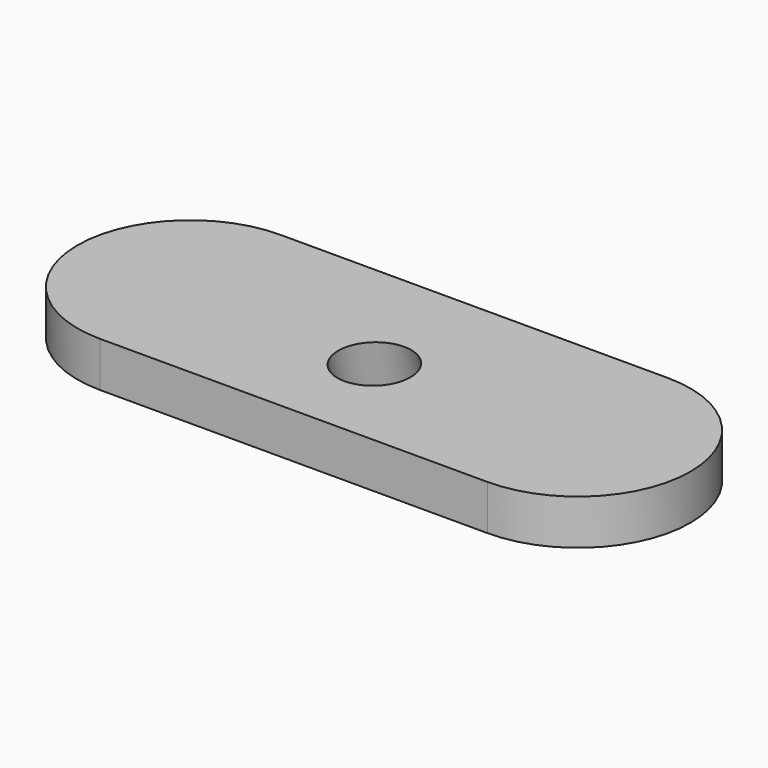
from build123d import *

# Parameters (mm, degrees)
F1_DEPTH = 10
F3_R     = 8
F4_DEPTH = 25


with BuildPart() as f1:
    # F0 (on Top) → F1 (new body)
    with BuildSketch(Plane.XY):
        with BuildLine():
            Line((43, 25), (-43, 25))
            ThreePointArc((-43, 25), (-68, 0), (-43, -25))
            Line((-43, -25), (43, -25))
            ThreePointArc((43, -25), (68, 0), (43, 25))
        make_face()
    extrude(amount=F1_DEPTH)

    # F3 (on face) → F4 (cut)
    with BuildSketch(Plane(origin=(0, -4.174682, 15.580127), x_dir=(1, 0, 0), z_dir=(0, 0.258819, -0.965926))):
        Circle(F3_R)
    extrude(amount=F4_DEPTH, mode=Mode.SUBTRACT)


solid = f1.part
